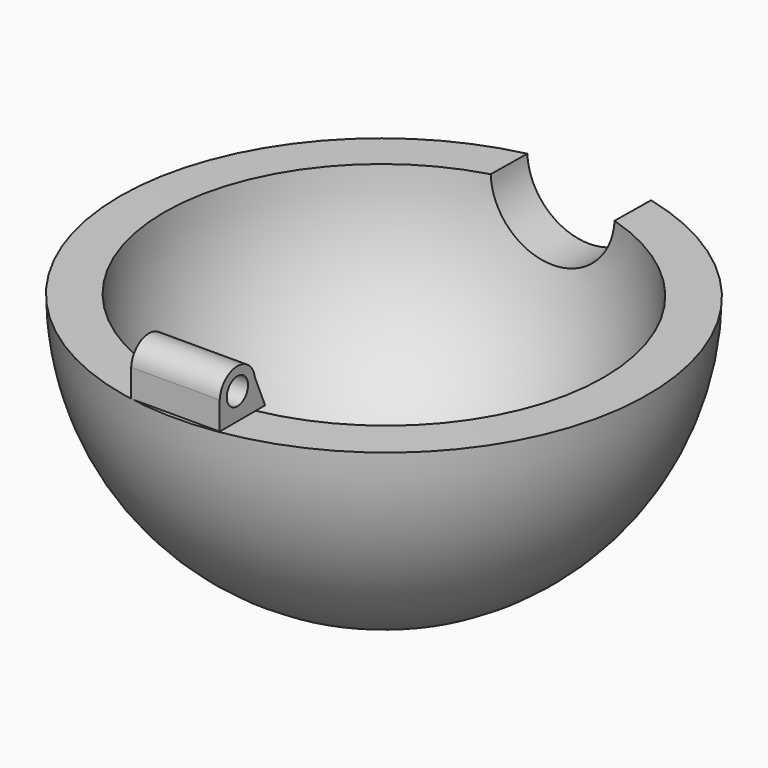
from build123d import *

# Parameters (mm, degrees)
F2_R     = 8.89
F3_DEPTH = 37.8751575137
F4_R     = 1.905
F5_DEPTH = 6.35


with BuildPart() as f1:
    # F0 (on Front) → F1 (revolve)
    with BuildSketch(Plane.XZ):
        with BuildLine():
            ThreePointArc((-0.1857913862, -31.5262409051), (-22.2928058356, -22.2928058356), (-31.5262409051, -0.1857913862))
            Line((-31.5262409051, -0.1857913862), (-37.8761306398, -0.2232127463))
            ThreePointArc((-37.8761306398, -0.2232127463), (-26.7829338961, -26.7829338961), (-0.2232127463, -37.8761306398))
            Line((-0.2232127463, -37.8761306398), (-0.1857913862, -31.5262409051))
        make_face()
    revolve(axis=Axis((-0.2045020662, 0, -34.7011857724), (-0.0058931276, 0, -0.9999826354)))

    # F2 (on Front) → F3 (cut, through all)
    with BuildSketch(Plane.XZ):
        Circle(F2_R)
    extrude(amount=-F3_DEPTH, mode=Mode.SUBTRACT)

    # F4 (on Right) → F5 (join, symmetric)
    with BuildSketch(Plane.YZ):
        with BuildLine():
            Line((-37.3891351909, -0.3715698676), (-31.5245985714, -0.3715698676))
            Line((-31.5245985714, -0.3715698676), (-29.2478017509, -0.3715698676))
            Line((-29.2478017509, -0.3715698676), (-31.0778754838, 3.9011891729))
            ThreePointArc((-31.0778754838, 3.9011891729), (-34.3635014884, 6.610138796), (-37.3891351909, 3.613592951))
            Line((-37.3891351909, 3.613592951), (-37.3891351909, 3.2632673138))
            Line((-37.3891351909, 3.2632673138), (-37.3891351909, -0.3715698676))
        make_face()
        with Locations((-34.2189706862, 3.4384301324)):
            Circle(F4_R, mode=Mode.SUBTRACT)
    extrude(amount=F5_DEPTH, both=True)


solid = f1.part
